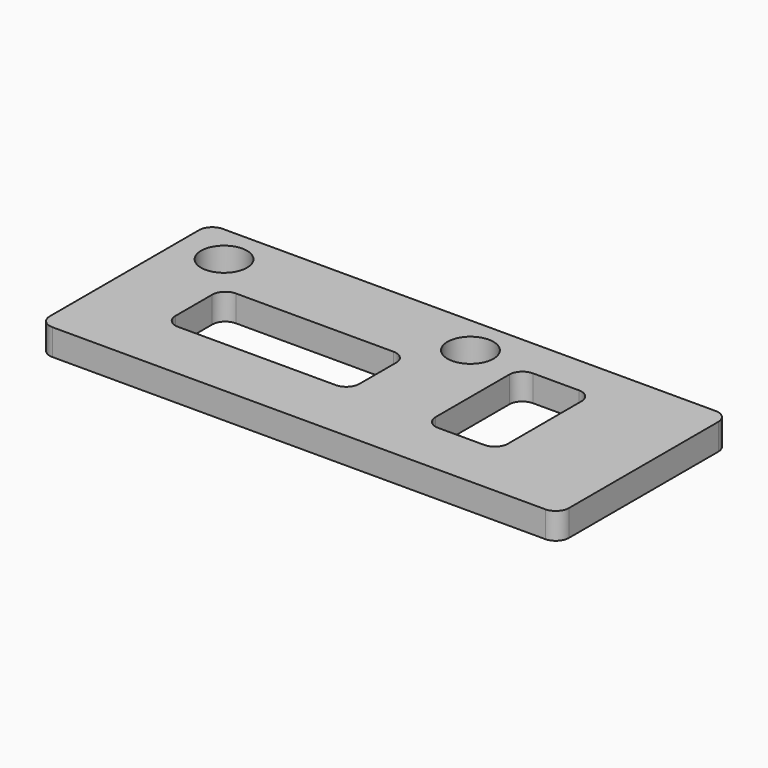
from build123d import *

# Parameters (mm, degrees)
SKETCH_W   = 39.5
SKETCH_H   = 16.2
SKETCH_R   = 1.75
SKETCH_W_2 = 14
SKETCH_H_2 = 5.5
SKETCH_W_3 = 5.5
SKETCH_H_3 = 9
PAD_DEPTH  = 2
FILLET_R   = 1


with BuildPart() as part:
    # Sketch → Pad (new body)
    with BuildSketch(Plane.XY):
        Rectangle(SKETCH_W, SKETCH_H)
        with Locations((-16.25, 5.1)):
            Circle(SKETCH_R, mode=Mode.SUBTRACT)
        with Locations((2.5, 5.1)):
            Circle(SKETCH_R, mode=Mode.SUBTRACT)
        with Locations((-6.95, -0.65)):
            Rectangle(SKETCH_W_2, SKETCH_H_2, mode=Mode.SUBTRACT)
        with Locations((9, 0.6)):
            Rectangle(SKETCH_W_3, SKETCH_H_3, mode=Mode.SUBTRACT)
    extrude(amount=PAD_DEPTH)

    # Fillet
    fillet_edges = [part.edges().sort_by_distance(p)[0] for p in [
        (-19.75, 8.1, 1),
        (0.05, -3.4, 1),
        (11.75, -3.9, 1),
        (19.75, 8.1, 1),
        (-19.75, -8.1, 1),
        (0.05, 2.1, 1),
        (11.75, 5.1, 1),
        (-13.95, -3.4, 1),
        (6.25, -3.9, 1),
        (19.75, -8.1, 1),
        (6.25, 5.1, 1),
        (-13.95, 2.1, 1),
    ]]
    fillet(fillet_edges, radius=FILLET_R)


solid = part.part
